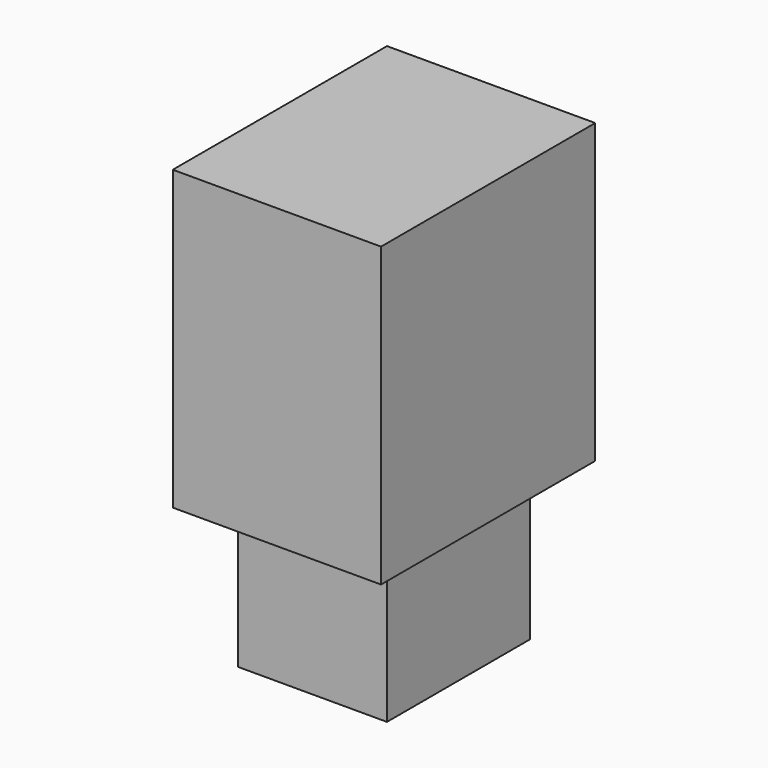
from build123d import *

# Parameters (mm, degrees)
SKETCH_W     = 5
SKETCH_H     = 6
PAD_DEPTH    = 5
SKETCH001_W  = 7
SKETCH001_H  = 9
PAD001_DEPTH = 10


with BuildPart() as part:
    # Sketch → Pad (new body)
    with BuildSketch(Plane.XY):
        Rectangle(SKETCH_W, SKETCH_H)
    extrude(amount=PAD_DEPTH)

    # Sketch001 (on Face6 of Pad) → Pad001 (join)
    with BuildSketch(Plane.XY.offset(5)):
        Rectangle(SKETCH001_W, SKETCH001_H)
    extrude(amount=PAD001_DEPTH)


solid = part.part
